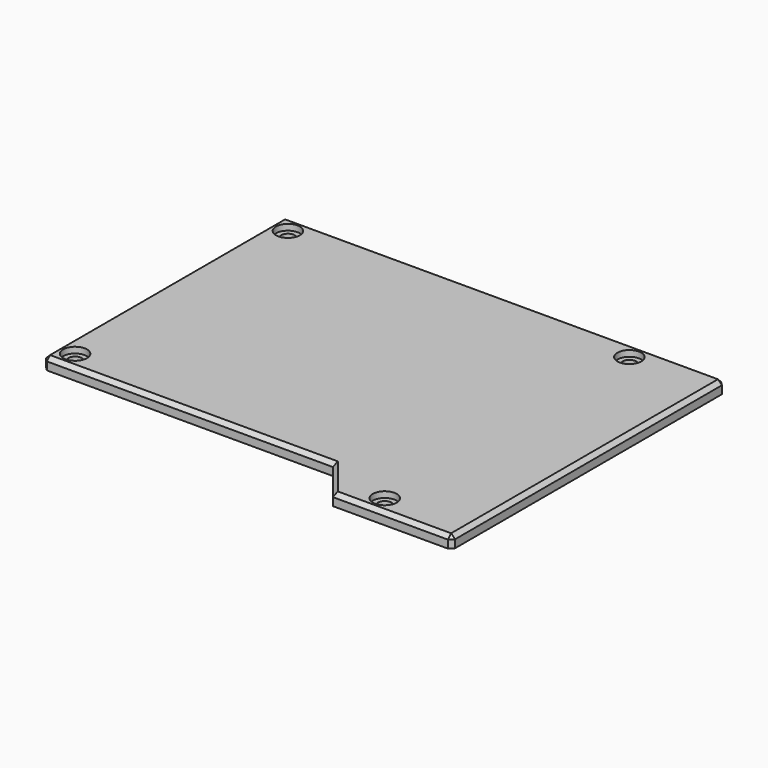
from build123d import *

# Parameters (mm, degrees)
PAD010_DEPTH    = 3
SKETCH023_R     = 1.7
HOLE002_DEPTH   = 3
HOLE002_TIPS_R  = 1.7
SKETCH024_R     = 3
POCKET007_DEPTH = 1.5
CHAMFER001_SIZE = 1


with BuildPart() as part:
    # Sketch022 (on Face1 of CopyPad011) → Pad010 (new body)
    with BuildSketch(Plane.XY.offset(24)):
        Polygon((-3, -6), (70, -6), (78, -16), (108, -16), (108, 70), (-3, 70), align=None)
    extrude(amount=PAD010_DEPTH)

    # Sketch023 (on Face8 of Pad010) → Hole002 (cut)
    with BuildSketch(Plane.XY.offset(27)):
        with Locations((1.5, 65.5)):
            Circle(SKETCH023_R)
        with Locations((87.5, 65.5)):
            Circle(SKETCH023_R)
        with Locations((87.5, -11.5)):
            Circle(SKETCH023_R)
        with Locations((1.5, -1.5)):
            Circle(SKETCH023_R)
    extrude(amount=-HOLE002_DEPTH, mode=Mode.SUBTRACT)

    # Hole002 tips → Hole002 tip 1 section 0
    with BuildSketch(Plane.XY.offset(24), mode=Mode.PRIVATE) as hole002_tip_1_s0:
        with Locations((1.5, 65.5)):
            Circle(HOLE002_TIPS_R)
    loft([hole002_tip_1_s0.sketch, Vertex(1.5, 65.5, 22.978537)], mode=Mode.SUBTRACT)

    # Hole002 tips → Hole002 tip 2 section 0
    with BuildSketch(Plane.XY.offset(24), mode=Mode.PRIVATE) as hole002_tip_2_s0:
        with Locations((87.5, 65.5)):
            Circle(HOLE002_TIPS_R)
    loft([hole002_tip_2_s0.sketch, Vertex(87.5, 65.5, 22.978537)], mode=Mode.SUBTRACT)

    # Hole002 tips → Hole002 tip 3 section 0
    with BuildSketch(Plane.XY.offset(24), mode=Mode.PRIVATE) as hole002_tip_3_s0:
        with Locations((87.5, -11.5)):
            Circle(HOLE002_TIPS_R)
    loft([hole002_tip_3_s0.sketch, Vertex(87.5, -11.5, 22.978537)], mode=Mode.SUBTRACT)

    # Hole002 tips → Hole002 tip 4 section 0
    with BuildSketch(Plane.XY.offset(24), mode=Mode.PRIVATE) as hole002_tip_4_s0:
        with Locations((1.5, -1.5)):
            Circle(HOLE002_TIPS_R)
    loft([hole002_tip_4_s0.sketch, Vertex(1.5, -1.5, 22.978537)], mode=Mode.SUBTRACT)

    # Sketch024 (on Face5 of Hole002) → Pocket007 (cut)
    with BuildSketch(Plane.XY.offset(27)):
        with Locations((1.5, 65.5)):
            Circle(SKETCH024_R)
        with Locations((87.5, 65.5)):
            Circle(SKETCH024_R)
        with Locations((87.5, -11.5)):
            Circle(SKETCH024_R)
        with Locations((1.5, -1.5)):
            Circle(SKETCH024_R)
    extrude(amount=-POCKET007_DEPTH, mode=Mode.SUBTRACT)

    # Chamfer001
    chamfer001_edges = [part.edges().sort_by_distance(p)[0] for p in [
        (-3, -6, 25.5),
        (-3, 32, 27),
        (33.5, -6, 27),
        (93, -16, 27),
        (74, -11, 27),
        (108, 27, 27),
        (52.5, 70, 27),
        (108, -16, 25.5),
        (108, 70, 25.5),
        (-3, 70, 25.5),
    ]]
    chamfer(chamfer001_edges, length=CHAMFER001_SIZE)


with BuildPart() as part_1:
    # Body002 placement: moved
    add(part.part.moved(Location((0, 0, -2.5))))


solid = part_1.part
